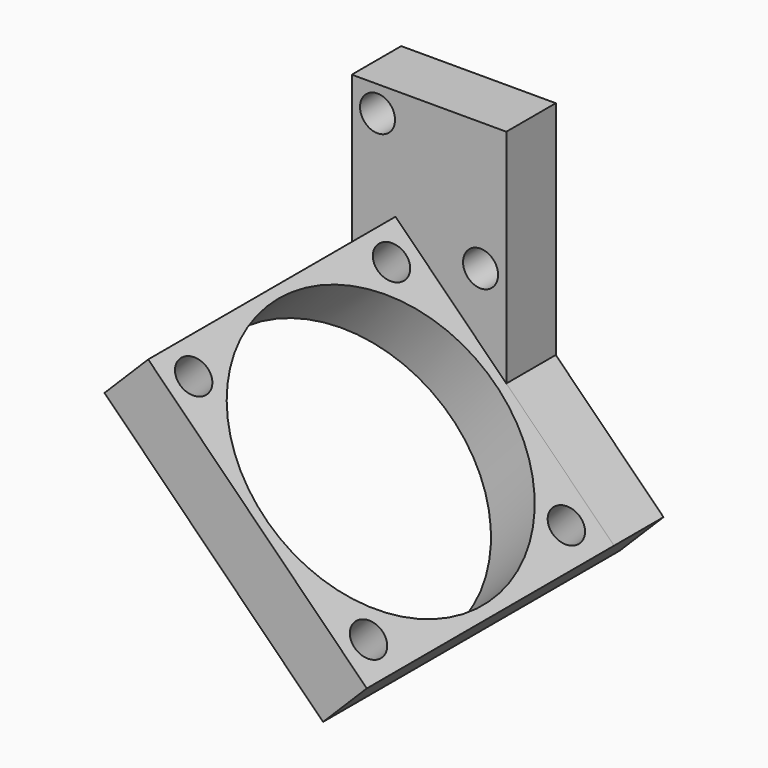
from build123d import *

# Parameters (mm, degrees)
PAD040_DEPTH    = 6
PAD041_DEPTH    = 30
SKETCH118_R     = 14
POCKET038_DEPTH = 21.001
SKETCH119_R     = 1.7
HOLE023_DEPTH   = 25
SKETCH120_R     = 1.7
HOLE024_DEPTH   = 25


with BuildPart() as part:
    # Sketch116 → Pad040 (new body)
    with BuildSketch(Plane.XZ):
        Polygon((28, 211.5), (43, 211.5), (43, 189.985281), (53.455844, 179.529437), (49.213203, 175.286797), (28, 196.5), align=None)
    extrude(amount=PAD040_DEPTH)

    # Sketch117 (on Face8 of Pad040) → Pad041 (join)
    with BuildSketch(Plane.XZ.offset(6)):
        Polygon((28, 196.5), (49.213203, 175.286797), (53.455844, 179.529437), (32.242641, 200.742641), align=None)
    extrude(amount=PAD041_DEPTH)

    # Sketch118 (on Face10 of Pad041) → Pocket038 (cut, through all)
    with BuildSketch(Plane(origin=(116.492641, 0, 116.492641), x_dir=(-0.707107, 0, 0.707107), z_dir=(0.707107, 0, 0.707107))):
        with Locations((104.206258, 21)):
            Circle(SKETCH118_R)
    extrude(amount=-POCKET038_DEPTH, mode=Mode.SUBTRACT)

    # Sketch119 (on Face10 of Pocket038) → Hole023 (cut)
    with BuildSketch(Plane(origin=(116.492641, 0, 116.492641), x_dir=(-0.707107, 0, 0.707107), z_dir=(0.707107, 0, 0.707107))):
        with Locations((92.3, 33)):
            Circle(SKETCH119_R)
        with Locations((116.3, 33)):
            Circle(SKETCH119_R)
        with Locations((92.3, 9)):
            Circle(SKETCH119_R)
        with Locations((116.3, 9)):
            Circle(SKETCH119_R)
    extrude(amount=-HOLE023_DEPTH, mode=Mode.SUBTRACT)

    # Sketch120 (on Face5 of Hole023) → Hole024 (cut)
    with BuildSketch(Plane.XZ.offset(6)):
        with Locations((30.5, 209)):
            Circle(SKETCH120_R)
        with Locations((40.5, 199)):
            Circle(SKETCH120_R)
    extrude(amount=-HOLE024_DEPTH, mode=Mode.SUBTRACT)


with BuildPart() as part_1:
    # Body017 placement: moved
    add(part.part.moved(Location((0, 132, 0))))


solid = part_1.part
